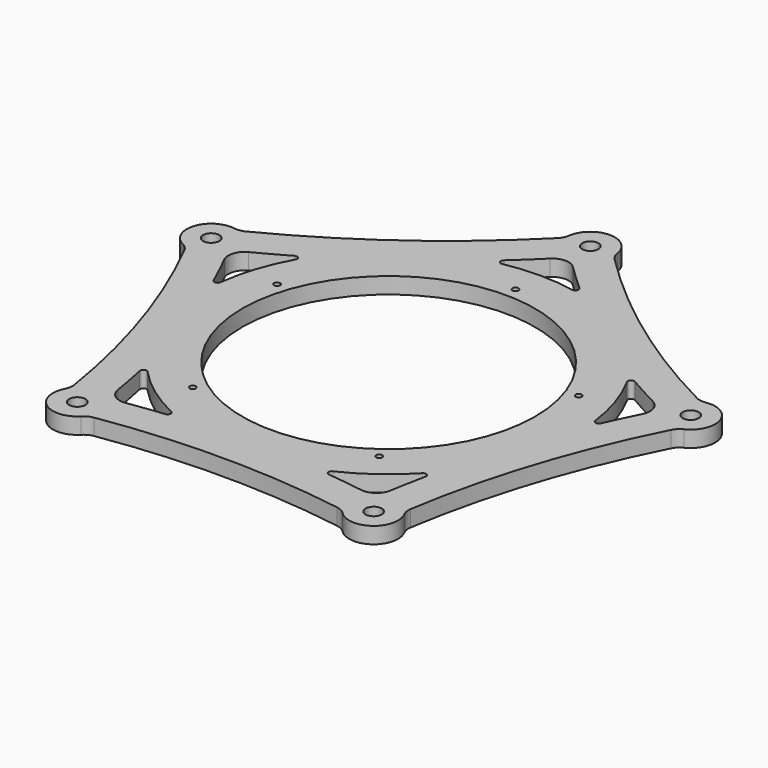
from build123d import *

# Parameters (mm, degrees)
F0_R     = 3.175
F1_DEPTH = 6.35
F2_R     = 6.35
F3_R     = 73.7611371721
F3_R_2   = 1.1938
F3_R_3   = 57.15
F4_DEPTH = 6.35
F5_R     = 1.27


with BuildPart() as f1:
    # F0 (on Top) → F1 (new body)
    with BuildSketch(Plane.XY):
        with BuildLine():
            ThreePointArc((-9.5138429714, 97.9641129032), (-47.4559080012, 65.3174537924), (-90.2294687797, 39.3207780789))
            ThreePointArc((-90.2294687797, 39.3207780789), (-102.6665509341, 33.3583845428), (-96.1093470997, 21.224373373))
            ThreePointArc((-96.1093470997, 21.224373373), (-76.785272113, -24.9490472901), (-65.2787214641, -73.6625355864))
            ThreePointArc((-65.2787214641, -73.6625355864), (-63.451417985, -87.3333845428), (-49.8850001728, -84.8467287688))
            ThreePointArc((-49.8850001728, -84.8467287688), (0, -80.7368130046), (49.8850001728, -84.8467287688))
            ThreePointArc((49.8850001728, -84.8467287688), (63.451417985, -87.3333845428), (65.2787214641, -73.6625355864))
            ThreePointArc((65.2787214641, -73.6625355864), (76.785272113, -24.9490472901), (96.1093470997, 21.224373373))
            ThreePointArc((96.1093470997, 21.224373373), (102.6665509341, 33.3583845428), (90.2294687797, 39.3207780789))
            ThreePointArc((90.2294687797, 39.3207780789), (47.4559080012, 65.3174537924), (9.5138429714, 97.9641129032))
            ThreePointArc((9.5138429714, 97.9641129032), (0, 107.95), (-9.5138429714, 97.9641129032))
        make_face()
        with Locations((-57.8527634569, -79.6274976714)):
            Circle(F0_R, mode=Mode.SUBTRACT)
        with Locations((57.8527634569, -79.6274976714)):
            Circle(F0_R, mode=Mode.SUBTRACT)
        with BuildLine():
            ThreePointArc((-52.2541089288, -71.9216107999), (-64.1098193616, -20.8305430325), (-84.5489242986, 27.4716107999))
            ThreePointArc((-84.5489242986, 27.4716107999), (-39.6220473781, 54.5350696632), (0, 88.9))
            ThreePointArc((0, 88.9), (39.6220473781, 54.5350696632), (84.5489242986, 27.4716107999))
            ThreePointArc((84.5489242986, 27.4716107999), (64.1098193616, -20.8305430325), (52.2541089288, -71.9216107999))
            ThreePointArc((52.2541089288, -71.9216107999), (0, -67.4090532614), (-52.2541089288, -71.9216107999))
        make_face(mode=Mode.SUBTRACT)
        with Locations((-93.6077376164, 30.4149976714)):
            Circle(F0_R, mode=Mode.SUBTRACT)
        with Locations((93.6077376164, 30.4149976714)):
            Circle(F0_R, mode=Mode.SUBTRACT)
        with Locations((0, 98.425)):
            Circle(F0_R, mode=Mode.SUBTRACT)
    extrude(amount=F1_DEPTH)

    # F2
    f2_edges = [f1.edges().sort_by_distance(p)[0] for p in [
        (0, 88.9, 3.175),
        (-9.513843, 97.964113, 3.175),
        (9.513843, 97.964113, 3.175),
        (84.548924, 27.471611, 3.175),
        (96.109347, 21.224373, 3.175),
        (90.229469, 39.320778, 3.175),
        (65.278721, -73.662536, 3.175),
        (49.885, -84.846729, 3.175),
        (52.254109, -71.921611, 3.175),
        (-49.885, -84.846729, 3.175),
        (-65.278721, -73.662536, 3.175),
        (-52.254109, -71.921611, 3.175),
        (-84.548924, 27.471611, 3.175),
        (-90.229469, 39.320778, 3.175),
        (-96.109347, 21.224373, 3.175),
    ]]
    fillet(f2_edges, radius=F2_R)

    # F3 (on face) → F4 (join, through all)
    with BuildSketch(Plane.XY.offset(6.35)):
        Circle(F3_R)
        with Locations((-36.3912544326, -50.0882646642)):
            Circle(F3_R_2, mode=Mode.SUBTRACT)
        with Locations((36.3912544326, -50.0882646642)):
            Circle(F3_R_2, mode=Mode.SUBTRACT)
        with Locations((-58.8822865651, 19.1320146642)):
            Circle(F3_R_2, mode=Mode.SUBTRACT)
        Circle(F3_R_3, mode=Mode.SUBTRACT)
        with Locations((58.8822865651, 19.1320146642)):
            Circle(F3_R_2, mode=Mode.SUBTRACT)
        with Locations((0, 61.9125)):
            Circle(F3_R_2, mode=Mode.SUBTRACT)
    extrude(amount=-F4_DEPTH)

    # F5
    f5_edges = [f1.edges().sort_by_distance(p)[0] for p in [
        (-73.621049, 4.543848, 3.175),
        (-56.889873, -46.949417, 3.175),
        (-27.071612, -68.613652, 3.175),
        (27.071612, -68.613652, 3.175),
        (56.889873, -46.949417, 3.175),
        (73.621049, 4.543848, 3.175),
        (62.231486, 39.597316, 3.175),
        (18.428699, 71.421904, 3.175),
        (-18.428699, 71.421904, 3.175),
        (-62.231486, 39.597316, 3.175),
    ]]
    fillet(f5_edges, radius=F5_R)


solid = f1.part
